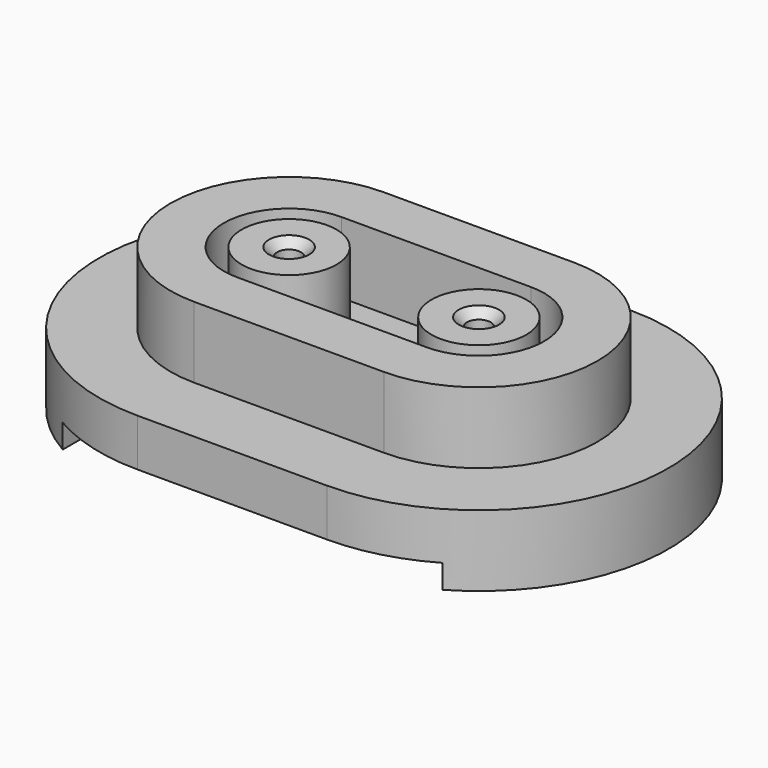
from build123d import *

# Parameters (mm, degrees)
F0_R     = 50.8
F0_R_2   = 25.4
F0_R_3   = 12.7
F2_DEPTH = 76.2
F3_DEPTH = 152.4
F4_DEPTH = 281.178
F5_SIZE  = 8.89
F1_W     = 406.4
F1_H     = 25.4
F6_DEPTH = 715.518


with BuildPart() as f2:
    # F0 (on Top) → F2 (new body)
    with BuildSketch(Plane.XY):
        with BuildLine():
            Line((101.6, 0), (-101.6, 0))
            ThreePointArc((-101.6, 0), (-304.8, -203.2), (-101.6, -406.4))
            Line((-101.6, -406.4), (101.6, -406.4))
            ThreePointArc((101.6, -406.4), (304.8, -203.2), (101.6, 0))
        make_face()
        with BuildLine():
            ThreePointArc((-101.6, -330.2), (-228.6, -203.2), (-101.6, -76.2))
            Line((-101.6, -76.2), (101.6, -76.2))
            ThreePointArc((101.6, -76.2), (228.6, -203.2), (101.6, -330.2))
            Line((101.6, -330.2), (-101.6, -330.2))
        make_face(mode=Mode.SUBTRACT)
        with BuildLine():
            Line((101.6, -76.2), (-101.6, -76.2))
            ThreePointArc((-101.6, -76.2), (-228.6, -203.2), (-101.6, -330.2))
            Line((-101.6, -330.2), (101.6, -330.2))
            ThreePointArc((101.6, -330.2), (228.6, -203.2), (101.6, -76.2))
        make_face()
        with BuildLine():
            ThreePointArc((101.6, -133.35), (171.45, -203.2), (101.6, -273.05))
            Line((101.6, -273.05), (-101.6, -273.05))
            ThreePointArc((-101.6, -273.05), (-171.45, -203.2), (-101.6, -133.35))
            Line((-101.6, -133.35), (101.6, -133.35))
        make_face(mode=Mode.SUBTRACT)
        with BuildLine():
            Line((-101.6, -273.05), (101.6, -273.05))
            ThreePointArc((101.6, -273.05), (171.45, -203.2), (101.6, -133.35))
            Line((101.6, -133.35), (-101.6, -133.35))
            ThreePointArc((-101.6, -133.35), (-171.45, -203.2), (-101.6, -273.05))
        make_face()
        with Locations((-101.6, -203.2)):
            Circle(F0_R, mode=Mode.SUBTRACT)
        with Locations((101.6, -203.2)):
            Circle(F0_R, mode=Mode.SUBTRACT)
        with Locations((101.6, -203.2)):
            Circle(F0_R)
        with Locations((101.6, -203.2)):
            Circle(F0_R_2, mode=Mode.SUBTRACT)
        with Locations((-101.6, -203.2)):
            Circle(F0_R)
        with Locations((-101.6, -203.2)):
            Circle(F0_R_2, mode=Mode.SUBTRACT)
        with Locations((101.6, -203.2)):
            Circle(F0_R_2)
        with Locations((101.6, -203.2)):
            Circle(F0_R_3, mode=Mode.SUBTRACT)
        with Locations((-101.6, -203.2)):
            Circle(F0_R_2)
        with Locations((-101.6, -203.2)):
            Circle(F0_R_3, mode=Mode.SUBTRACT)
        with Locations((101.6, -203.2)):
            Circle(F0_R_3)
        with Locations((-101.6, -203.2)):
            Circle(F0_R_3)
    extrude(amount=F2_DEPTH)

    # F0 (on Top) → F3 (join)
    with BuildSketch(Plane.XY):
        with BuildLine():
            Line((101.6, -76.2), (-101.6, -76.2))
            ThreePointArc((-101.6, -76.2), (-228.6, -203.2), (-101.6, -330.2))
            Line((-101.6, -330.2), (101.6, -330.2))
            ThreePointArc((101.6, -330.2), (228.6, -203.2), (101.6, -76.2))
        make_face()
        with BuildLine():
            ThreePointArc((101.6, -133.35), (171.45, -203.2), (101.6, -273.05))
            Line((101.6, -273.05), (-101.6, -273.05))
            ThreePointArc((-101.6, -273.05), (-171.45, -203.2), (-101.6, -133.35))
            Line((-101.6, -133.35), (101.6, -133.35))
        make_face(mode=Mode.SUBTRACT)
        with Locations((101.6, -203.2)):
            Circle(F0_R)
        with Locations((101.6, -203.2)):
            Circle(F0_R_2, mode=Mode.SUBTRACT)
        with Locations((-101.6, -203.2)):
            Circle(F0_R)
        with Locations((-101.6, -203.2)):
            Circle(F0_R_2, mode=Mode.SUBTRACT)
        with Locations((101.6, -203.2)):
            Circle(F0_R_2)
        with Locations((101.6, -203.2)):
            Circle(F0_R_3, mode=Mode.SUBTRACT)
        with Locations((-101.6, -203.2)):
            Circle(F0_R_2)
        with Locations((-101.6, -203.2)):
            Circle(F0_R_3, mode=Mode.SUBTRACT)
        with Locations((101.6, -203.2)):
            Circle(F0_R_3)
        with Locations((-101.6, -203.2)):
            Circle(F0_R_3)
    extrude(amount=F3_DEPTH)

    # F0 (on Top) → F4 (cut)
    with BuildSketch(Plane.XY):
        with Locations((101.6, -203.2)):
            Circle(F0_R_3)
        with Locations((-101.6, -203.2)):
            Circle(F0_R_3)
    extrude(amount=F4_DEPTH, mode=Mode.SUBTRACT)

    # F5
    f5_edges = [f2.edges().sort_by_distance(p)[0] for p in [
        (88.9, -203.2, 0),
        (114.3, -203.2, 76.2),
        (88.9, -203.2, 152.4),
        (-114.3, -203.2, 0),
        (-88.9, -203.2, 76.2),
        (-114.3, -203.2, 152.4),
    ]]
    chamfer(f5_edges, length=F5_SIZE)

    # F1 (on Front) → F6 (cut)
    with BuildSketch(Plane.XZ):
        with Locations((0, 12.7)):
            Rectangle(F1_W, F1_H)
    extrude(amount=F6_DEPTH, mode=Mode.SUBTRACT)


solid = f2.part
